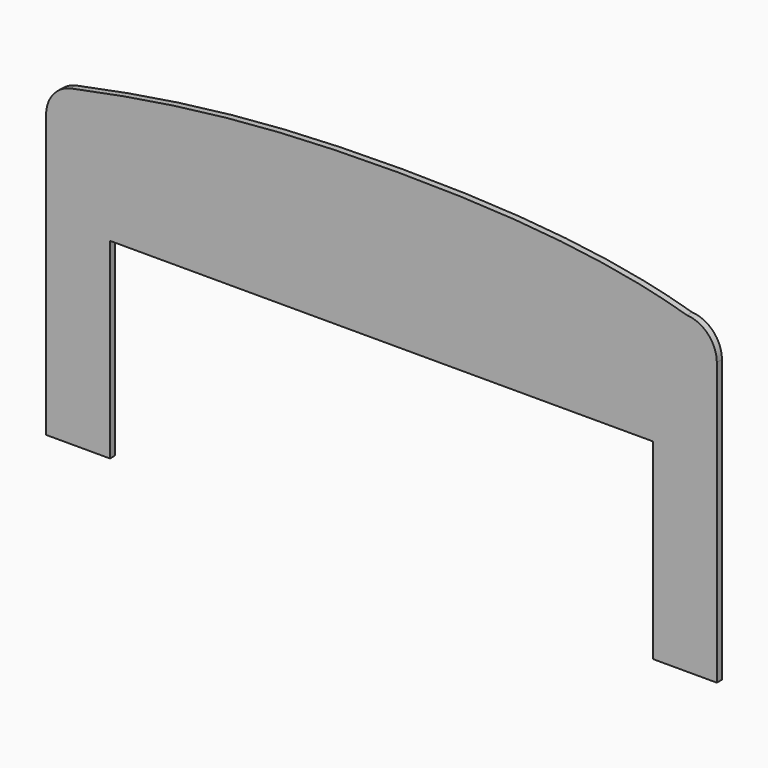
from build123d import *

# Parameters (mm, degrees)
F1_DEPTH = 2


with BuildPart() as f1:
    # F0 (on Front) → F1 (new body)
    with BuildSketch(Plane.XZ):
        with BuildLine():
            ThreePointArc((-97.2796902061, 48.0209551062), (-102.8357163699, 44.4972857308), (-105, 38.2842712475))
            Line((-105, 38.2842712475), (-105, -50))
            Line((-105, -50), (-85, -50))
            Line((-85, -50), (-85, 10))
            Line((-85, 10), (85, 10))
            Line((85, 10), (85, -50))
            Line((85, -50), (105, -50))
            Line((105, -50), (105, 38.2842712475))
            ThreePointArc((105, 38.2842712475), (102.2926339235, 45.1266020242), (95.6365019083, 48.2639939551))
            add(Edge.make_bspline(
                [(-97.2796902061, 48.0209551062), (-60.5141335586, 55.7605321976), (-3.8012095964, 60.1151794196), (67.0250435268, 56.7418227483), (95.6365019083, 48.2639939551)],
                knots=[0, 0, 0, 0, 0.5021390504, 1, 1, 1, 1], degree=3))
        make_face()
    extrude(amount=F1_DEPTH)


solid = f1.part
